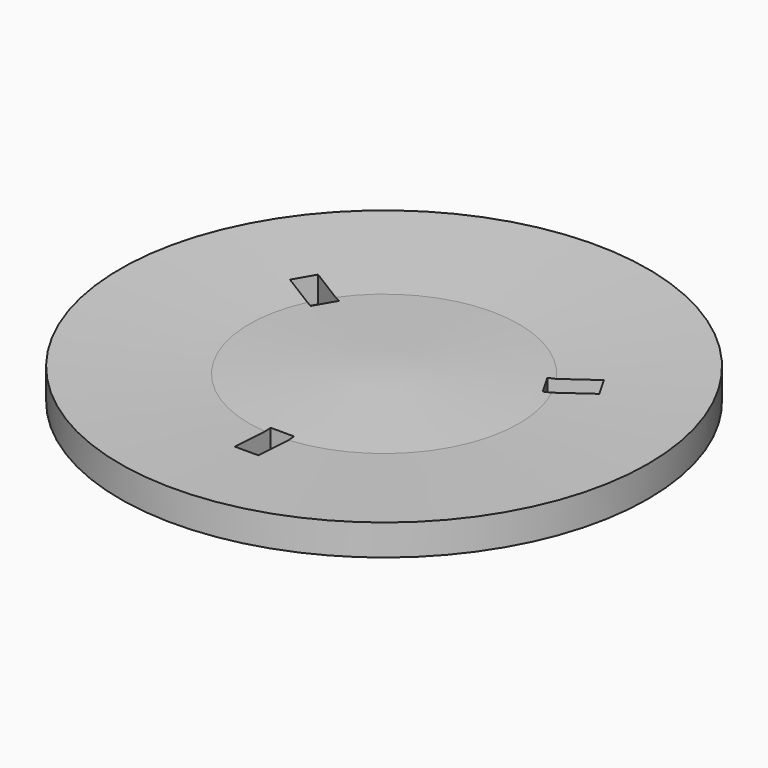
from build123d import *

# Parameters (mm, degrees)
F2_W     = 14.5
F2_H     = 27.5
F3_DEPTH = 16.158143704


with BuildPart() as f1:
    # F0 (on Front) → F1 (revolve)
    with BuildSketch(Plane.XZ):
        Polygon((0, 19), (0, 0), (162.5, 0), (162.5, 19), (83, 15), align=None)
    revolve(axis=Axis((0, 0, 9.5), (0, 0, 1)))

    # F2 (on face) → F3 (cut, through all)
    with BuildSketch(Plane(origin=(0, 0, 0), x_dir=(1, 0, 0), z_dir=(0, 0, -1))):
        with Locations((0, 92)):
            Rectangle(F2_W, F2_H)
        Polygon((-71.3914878461, -32.8463158226), (-95.2071864502, -46.5963158226), (-87.9571864502, -59.1536841774), (-64.1414878461, -45.4036841774), align=None)
        Polygon((64.1414878461, -45.4036841774), (87.9571864502, -59.1536841774), (95.2071864502, -46.5963158226), (71.3914878461, -32.8463158226), align=None)
    extrude(amount=-F3_DEPTH, mode=Mode.SUBTRACT)


solid = f1.part
